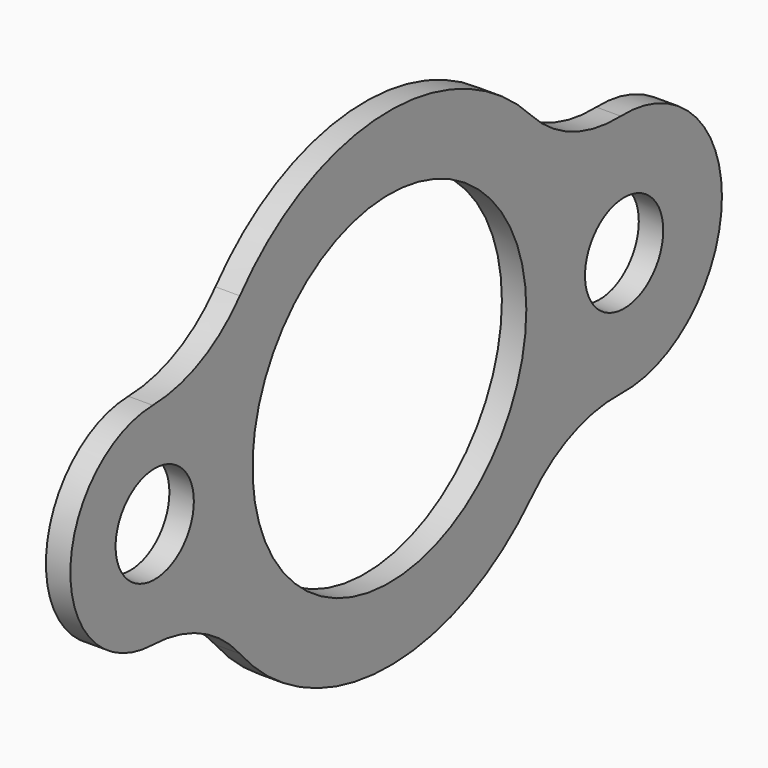
from build123d import *

# Parameters (mm, degrees)
F0_R     = 12.7
F0_R_2   = 44.45
F1_DEPTH = 6.35


with BuildPart() as f1:
    # F0 (on Right) → F1 (new body)
    with BuildSketch(Plane.YZ):
        with BuildLine():
            ThreePointArc((-76.824834, -27.378873), (-61.23519, -31.10744), (-48.558824, -40.918097))
            ThreePointArc((-48.558824, -40.918097), (-1.818361, -63.47396), (46.136719, -43.630874))
            ThreePointArc((46.136719, -43.630874), (59.347524, -34.564632), (75.117614, -31.731545))
            ThreePointArc((75.117614, -31.731545), (107.95, 0), (75.117614, 31.731545))
            ThreePointArc((75.117614, 31.731545), (59.347524, 34.564632), (46.136719, 43.630874))
            ThreePointArc((46.136719, 43.630874), (-1.818361, 63.47396), (-48.558824, 40.918097))
            ThreePointArc((-48.558824, 40.918097), (-61.23519, 31.10744), (-76.824834, 27.378873))
            ThreePointArc((-76.824834, 27.378873), (-103.586002, 0), (-76.824834, -27.378873))
        make_face()
        with Locations((-76.2, 0)):
            Circle(F0_R, mode=Mode.SUBTRACT)
        Circle(F0_R_2, mode=Mode.SUBTRACT)
        with Locations((76.2, 0)):
            Circle(F0_R, mode=Mode.SUBTRACT)
    extrude(amount=F1_DEPTH)


solid = f1.part
